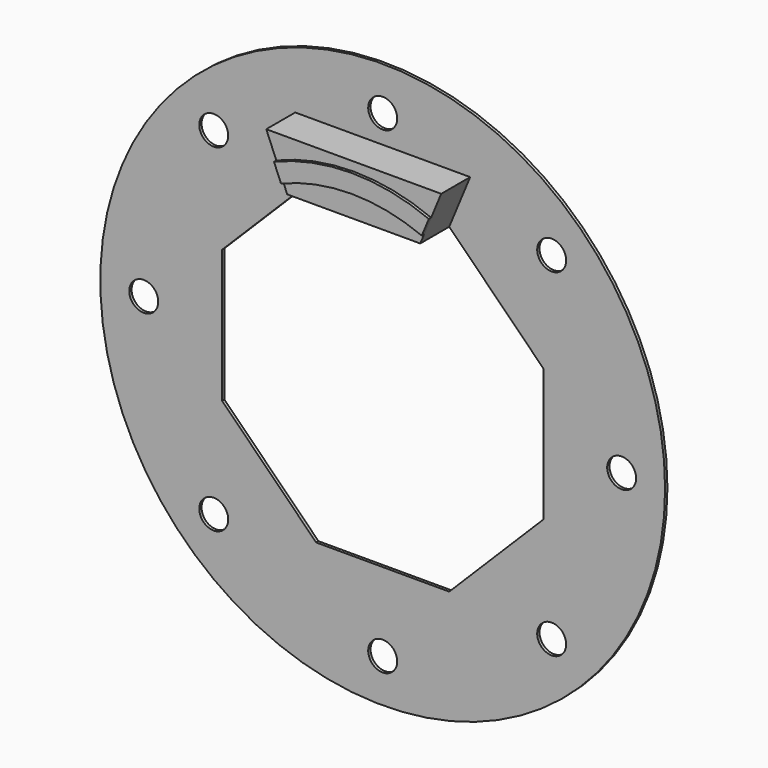
from build123d import *

# Parameters (mm, degrees)
F1_DEPTH = 25
F3_DEPTH = 2
F4_R     = 195
F4_R_2   = 10
F5_DEPTH = 2


with BuildPart() as f1:
    # F0 (on Front) → F1 (new body)
    with BuildSketch(Plane.XZ):
        Polygon((-60.394094, 145.804241), (-45.933053, 110.892201), (45.933053, 110.892201), (60.394094, 145.804241), align=None)
    extrude(amount=F1_DEPTH)

    # F2 (on face) → F3 (join)
    with BuildSketch(Plane.XZ.offset(25)):
        with BuildLine():
            Line((-53.460876, 129.065971), (-48.600796, 117.332701))
            ThreePointArc((-48.600796, 117.332701), (0, 127), (48.600796, 117.332701))
            Line((48.600796, 117.332701), (53.460876, 129.065971))
            ThreePointArc((53.460876, 129.065971), (0, 139.7), (-53.460876, 129.065971))
        make_face()
    extrude(amount=F3_DEPTH)

    # F4 (on face) → F5 (join)
    with BuildSketch(Plane.XZ):
        Circle(F4_R)
        with Locations((-116.672619, -116.672619)):
            Circle(F4_R_2, mode=Mode.SUBTRACT)
        with Locations((0, -165)):
            Circle(F4_R_2, mode=Mode.SUBTRACT)
        with Locations((116.672619, -116.672619)):
            Circle(F4_R_2, mode=Mode.SUBTRACT)
        with Locations((-165, 0)):
            Circle(F4_R_2, mode=Mode.SUBTRACT)
        with Locations((-116.672619, 116.672619)):
            Circle(F4_R_2, mode=Mode.SUBTRACT)
        Polygon((-110.892201, -45.933053), (-110.892201, 45.933053), (-45.933053, 110.892201), (45.933053, 110.892201), (110.892201, 45.933053), (110.892201, -45.933053), (45.933053, -110.892201), (-45.933053, -110.892201), align=None, mode=Mode.SUBTRACT)
        with Locations((165, 0)):
            Circle(F4_R_2, mode=Mode.SUBTRACT)
        with Locations((0, 165)):
            Circle(F4_R_2, mode=Mode.SUBTRACT)
        with Locations((116.672619, 116.672619)):
            Circle(F4_R_2, mode=Mode.SUBTRACT)
    extrude(amount=-F5_DEPTH)


solid = f1.part
